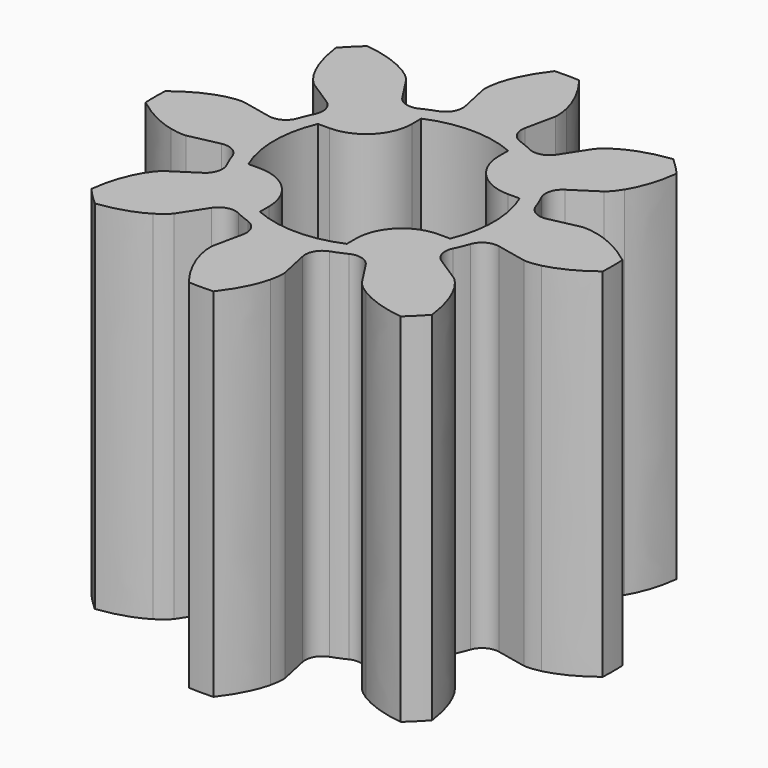
from build123d import *

# Parameters (mm, degrees)
PAD_DEPTH          = 7.8
POCKET_DEPTH       = 40.110996
POLARPATTERN_COUNT = 4
FILLET_R           = 1


with BuildPart() as part:
    # InvoluteGear → Pad (new body)
    with BuildSketch(Plane.XY):
        with BuildLine():
            Line((3.033448, -0.650534), (3.690445, -0.790452))
            add(Edge.make_bspline(
                [(3.690445, -0.790452), (3.729435, -0.795217), (3.846179, -0.802637), (4.045143, -0.756539)],
                knots=[0, 0, 0, 0, 1, 1, 1, 1], degree=3))
            add(Edge.make_bspline(
                [(4.045143, -0.756539), (4.280439, -0.699703), (4.611419, -0.567961), (4.994524, -0.269629)],
                knots=[0, 0, 0, 0, 1, 1, 1, 1], degree=3))
            ThreePointArc((4.994524, -0.269629), (5.001799, 0), (4.994524, 0.269629))
            add(Edge.make_bspline(
                [(4.994524, 0.269629), (4.611419, 0.567961), (4.280439, 0.699703), (4.045143, 0.756539)],
                knots=[0, 0, 0, 0, 1, 1, 1, 1], degree=3))
            add(Edge.make_bspline(
                [(4.045143, 0.756539), (3.846179, 0.802637), (3.729435, 0.795217), (3.690445, 0.790452)],
                knots=[0, 0, 0, 0, 1, 1, 1, 1], degree=3))
            Line((3.690445, 0.790452), (3.033448, 0.650534))
            ThreePointArc((3.033448, 0.650534), (2.771469, 0.690068), (2.601007, 0.892895))
            ThreePointArc((2.601007, 0.892895), (2.540669, 1.052379), (2.470562, 1.207818))
            ThreePointArc((2.470562, 1.207818), (2.447677, 1.471773), (2.604969, 1.684974))
            Line((2.604969, 1.684974), (3.168472, 2.050605))
            add(Edge.make_bspline(
                [(3.168472, 2.050605), (3.199412, 2.074806), (3.28721, 2.152109), (3.395302, 2.325394)],
                knots=[0, 0, 0, 0, 1, 1, 1, 1], degree=3))
            add(Edge.make_bspline(
                [(3.395302, 2.325394), (3.521492, 2.531963), (3.662375, 2.859156), (3.722318, 3.341005)],
                knots=[0, 0, 0, 0, 1, 1, 1, 1], degree=3))
            ThreePointArc((3.722318, 3.341005), (3.536806, 3.536806), (3.341005, 3.722318))
            add(Edge.make_bspline(
                [(3.341005, 3.722318), (2.859156, 3.662375), (2.531963, 3.521492), (2.325394, 3.395302)],
                knots=[0, 0, 0, 0, 1, 1, 1, 1], degree=3))
            add(Edge.make_bspline(
                [(2.325394, 3.395302), (2.152109, 3.28721), (2.074806, 3.199412), (2.050605, 3.168472)],
                knots=[0, 0, 0, 0, 1, 1, 1, 1], degree=3))
            Line((2.050605, 3.168472), (1.684974, 2.604969))
            ThreePointArc((1.684974, 2.604969), (1.471773, 2.447677), (1.207818, 2.470562))
            ThreePointArc((1.207818, 2.470562), (1.052379, 2.540669), (0.892895, 2.601007))
            ThreePointArc((0.892895, 2.601007), (0.690068, 2.771469), (0.650534, 3.033448))
            Line((0.650534, 3.033448), (0.790452, 3.690445))
            add(Edge.make_bspline(
                [(0.790452, 3.690445), (0.795217, 3.729435), (0.802637, 3.846179), (0.756539, 4.045143)],
                knots=[0, 0, 0, 0, 1, 1, 1, 1], degree=3))
            add(Edge.make_bspline(
                [(0.756539, 4.045143), (0.699703, 4.280439), (0.567961, 4.611419), (0.269629, 4.994524)],
                knots=[0, 0, 0, 0, 1, 1, 1, 1], degree=3))
            ThreePointArc((0.269629, 4.994524), (0, 5.001799), (-0.269629, 4.994524))
            add(Edge.make_bspline(
                [(-0.269629, 4.994524), (-0.567961, 4.611419), (-0.699703, 4.280439), (-0.756539, 4.045143)],
                knots=[0, 0, 0, 0, 1, 1, 1, 1], degree=3))
            add(Edge.make_bspline(
                [(-0.756539, 4.045143), (-0.802637, 3.846179), (-0.795217, 3.729435), (-0.790452, 3.690445)],
                knots=[0, 0, 0, 0, 1, 1, 1, 1], degree=3))
            Line((-0.790452, 3.690445), (-0.650534, 3.033448))
            ThreePointArc((-0.650534, 3.033448), (-0.690068, 2.771469), (-0.892895, 2.601007))
            ThreePointArc((-0.892895, 2.601007), (-1.052379, 2.540669), (-1.207818, 2.470562))
            ThreePointArc((-1.207818, 2.470562), (-1.471773, 2.447677), (-1.684974, 2.604969))
            Line((-1.684974, 2.604969), (-2.050605, 3.168472))
            add(Edge.make_bspline(
                [(-2.050605, 3.168472), (-2.074806, 3.199412), (-2.152109, 3.28721), (-2.325394, 3.395302)],
                knots=[0, 0, 0, 0, 1, 1, 1, 1], degree=3))
            add(Edge.make_bspline(
                [(-2.325394, 3.395302), (-2.531963, 3.521492), (-2.859156, 3.662375), (-3.341005, 3.722318)],
                knots=[0, 0, 0, 0, 1, 1, 1, 1], degree=3))
            ThreePointArc((-3.341005, 3.722318), (-3.536806, 3.536806), (-3.722318, 3.341005))
            add(Edge.make_bspline(
                [(-3.722318, 3.341005), (-3.662375, 2.859156), (-3.521492, 2.531963), (-3.395302, 2.325394)],
                knots=[0, 0, 0, 0, 1, 1, 1, 1], degree=3))
            add(Edge.make_bspline(
                [(-3.395302, 2.325394), (-3.28721, 2.152109), (-3.199412, 2.074806), (-3.168472, 2.050605)],
                knots=[0, 0, 0, 0, 1, 1, 1, 1], degree=3))
            Line((-3.168472, 2.050605), (-2.604969, 1.684974))
            ThreePointArc((-2.604969, 1.684974), (-2.447677, 1.471773), (-2.470562, 1.207818))
            ThreePointArc((-2.470562, 1.207818), (-2.540669, 1.052379), (-2.601007, 0.892895))
            ThreePointArc((-2.601007, 0.892895), (-2.771469, 0.690068), (-3.033448, 0.650534))
            Line((-3.033448, 0.650534), (-3.690445, 0.790452))
            add(Edge.make_bspline(
                [(-3.690445, 0.790452), (-3.729435, 0.795217), (-3.846179, 0.802637), (-4.045143, 0.756539)],
                knots=[0, 0, 0, 0, 1, 1, 1, 1], degree=3))
            add(Edge.make_bspline(
                [(-4.045143, 0.756539), (-4.280439, 0.699703), (-4.611419, 0.567961), (-4.994524, 0.269629)],
                knots=[0, 0, 0, 0, 1, 1, 1, 1], degree=3))
            ThreePointArc((-4.994524, 0.269629), (-5.001799, 0), (-4.994524, -0.269629))
            add(Edge.make_bspline(
                [(-4.994524, -0.269629), (-4.611419, -0.567961), (-4.280439, -0.699703), (-4.045143, -0.756539)],
                knots=[0, 0, 0, 0, 1, 1, 1, 1], degree=3))
            add(Edge.make_bspline(
                [(-4.045143, -0.756539), (-3.846179, -0.802637), (-3.729435, -0.795217), (-3.690445, -0.790452)],
                knots=[0, 0, 0, 0, 1, 1, 1, 1], degree=3))
            Line((-3.690445, -0.790452), (-3.033448, -0.650534))
            ThreePointArc((-3.033448, -0.650534), (-2.771469, -0.690068), (-2.601007, -0.892895))
            ThreePointArc((-2.601007, -0.892895), (-2.540669, -1.052379), (-2.470562, -1.207818))
            ThreePointArc((-2.470562, -1.207818), (-2.447677, -1.471773), (-2.604969, -1.684974))
            Line((-2.604969, -1.684974), (-3.168472, -2.050605))
            add(Edge.make_bspline(
                [(-3.168472, -2.050605), (-3.199412, -2.074806), (-3.28721, -2.152109), (-3.395302, -2.325394)],
                knots=[0, 0, 0, 0, 1, 1, 1, 1], degree=3))
            add(Edge.make_bspline(
                [(-3.395302, -2.325394), (-3.521492, -2.531963), (-3.662375, -2.859156), (-3.722318, -3.341005)],
                knots=[0, 0, 0, 0, 1, 1, 1, 1], degree=3))
            ThreePointArc((-3.722318, -3.341005), (-3.536806, -3.536806), (-3.341005, -3.722318))
            add(Edge.make_bspline(
                [(-3.341005, -3.722318), (-2.859156, -3.662375), (-2.531963, -3.521492), (-2.325394, -3.395302)],
                knots=[0, 0, 0, 0, 1, 1, 1, 1], degree=3))
            add(Edge.make_bspline(
                [(-2.325394, -3.395302), (-2.152109, -3.28721), (-2.074806, -3.199412), (-2.050605, -3.168472)],
                knots=[0, 0, 0, 0, 1, 1, 1, 1], degree=3))
            Line((-2.050605, -3.168472), (-1.684974, -2.604969))
            ThreePointArc((-1.684974, -2.604969), (-1.471773, -2.447677), (-1.207818, -2.470562))
            ThreePointArc((-1.207818, -2.470562), (-1.052379, -2.540669), (-0.892895, -2.601007))
            ThreePointArc((-0.892895, -2.601007), (-0.690068, -2.771469), (-0.650534, -3.033448))
            Line((-0.650534, -3.033448), (-0.790452, -3.690445))
            add(Edge.make_bspline(
                [(-0.790452, -3.690445), (-0.795217, -3.729435), (-0.802637, -3.846179), (-0.756539, -4.045143)],
                knots=[0, 0, 0, 0, 1, 1, 1, 1], degree=3))
            add(Edge.make_bspline(
                [(-0.756539, -4.045143), (-0.699703, -4.280439), (-0.567961, -4.611419), (-0.269629, -4.994524)],
                knots=[0, 0, 0, 0, 1, 1, 1, 1], degree=3))
            ThreePointArc((-0.269629, -4.994524), (0, -5.001799), (0.269629, -4.994524))
            add(Edge.make_bspline(
                [(0.269629, -4.994524), (0.567961, -4.611419), (0.699703, -4.280439), (0.756539, -4.045143)],
                knots=[0, 0, 0, 0, 1, 1, 1, 1], degree=3))
            add(Edge.make_bspline(
                [(0.756539, -4.045143), (0.802637, -3.846179), (0.795217, -3.729435), (0.790452, -3.690445)],
                knots=[0, 0, 0, 0, 1, 1, 1, 1], degree=3))
            Line((0.790452, -3.690445), (0.650534, -3.033448))
            ThreePointArc((0.650534, -3.033448), (0.690068, -2.771469), (0.892895, -2.601007))
            ThreePointArc((0.892895, -2.601007), (1.052379, -2.540669), (1.207818, -2.470562))
            ThreePointArc((1.207818, -2.470562), (1.471773, -2.447677), (1.684974, -2.604969))
            Line((1.684974, -2.604969), (2.050605, -3.168472))
            add(Edge.make_bspline(
                [(2.050605, -3.168472), (2.074806, -3.199412), (2.152109, -3.28721), (2.325394, -3.395302)],
                knots=[0, 0, 0, 0, 1, 1, 1, 1], degree=3))
            add(Edge.make_bspline(
                [(2.325394, -3.395302), (2.531963, -3.521492), (2.859156, -3.662375), (3.341005, -3.722318)],
                knots=[0, 0, 0, 0, 1, 1, 1, 1], degree=3))
            ThreePointArc((3.341005, -3.722318), (3.536806, -3.536806), (3.722318, -3.341005))
            add(Edge.make_bspline(
                [(3.722318, -3.341005), (3.662375, -2.859156), (3.521492, -2.531963), (3.395302, -2.325394)],
                knots=[0, 0, 0, 0, 1, 1, 1, 1], degree=3))
            add(Edge.make_bspline(
                [(3.395302, -2.325394), (3.28721, -2.152109), (3.199412, -2.074806), (3.168472, -2.050605)],
                knots=[0, 0, 0, 0, 1, 1, 1, 1], degree=3))
            Line((3.168472, -2.050605), (2.604969, -1.684974))
            ThreePointArc((2.604969, -1.684974), (2.447677, -1.471773), (2.470562, -1.207818))
            ThreePointArc((2.470562, -1.207818), (2.540669, -1.052379), (2.601007, -0.892895))
            ThreePointArc((2.601007, -0.892895), (2.771469, -0.690068), (3.033448, -0.650534))
        make_face()
    extrude(amount=PAD_DEPTH)

    # Sketch (on Face81 of Pad) → Pocket (cut, through all)
    with BuildSketch(Plane(origin=(0, 0, 0), x_dir=(1, 0, 0), z_dir=(0, 0, -1))):
        with BuildLine():
            Line((0, 0), (0.95, 0))
            Line((0.95, 0), (0.95, 2.203974))
            ThreePointArc((0.95, 2.203974), (0, 2.4), (-0.95, 2.203974))
            Line((-0.95, 0), (-0.95, 2.203974))
            Line((0, 0), (-0.95, 0))
        make_face()
    pocket = extrude(amount=-POCKET_DEPTH, mode=Mode.SUBTRACT)

    # PolarPattern: Pocket ×4 about axis
    polarpattern_axis = Axis((0, 0, 0), (0, 0, -1))
    for i in range(1, POLARPATTERN_COUNT):
        add(pocket.rotate(polarpattern_axis, i * 360 / POLARPATTERN_COUNT), mode=Mode.SUBTRACT)

    # Fillet
    fillet_edges = [part.edges().sort_by_distance(p)[0] for p in [
        (0.95, 0.95, 3.9),
        (-0.95, 0.95, 3.9),
        (-0.95, -0.95, 3.9),
        (0.95, -0.95, 3.9),
    ]]
    fillet(fillet_edges, radius=FILLET_R)


solid = part.part
